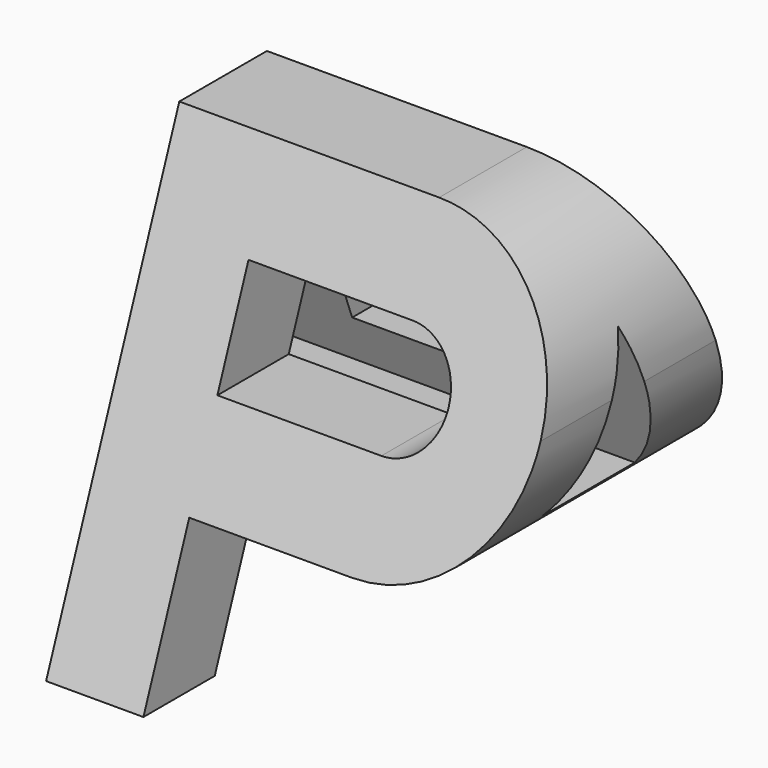
from build123d import *

# Parameters (mm, degrees)
F0_W     = 25.4
F0_H     = 25.4
F1_DEPTH = 25.4
F5_DEPTH = 25.401
F6_DEPTH = 25.401


with BuildPart() as f1:
    # F0 (on Top) → F1 (new body)
    with BuildSketch(Plane.XY):
        Rectangle(F0_W, F0_H)
    extrude(amount=F1_DEPTH)

    # F3 (on face) → F5 (intersect, through all)
    with BuildSketch(Plane(origin=(-12.7, 0, 0), x_dir=(0, -1, 0), z_dir=(-1, 0, 0))):
        Polygon((3.142383, 25.4), (0, 25.4), (-3.142383, 25.4), (-12.7, 0), (-7.581967, 0), (-5.010512, 6.833812), (0, 6.833812), (5.010512, 6.833812), (7.581967, 0), (12.7, 0), align=None)
        Polygon((-3.307431, 11.359861), (0, 20.149579), (3.307431, 11.359861), (0, 11.359861), align=None, mode=Mode.SUBTRACT)
    extrude(amount=-F5_DEPTH, mode=Mode.INTERSECT)

    # F4 (on face) → F6 (intersect, through all)
    with BuildSketch(Plane.XZ.offset(12.7)):
        with BuildLine():
            Line((-7.112893, 25.4), (-12.7, 25.4))
            Line((-12.7, 25.4), (-12.7, 0))
            Line((-12.7, 0), (-7.112893, 0))
            Line((-7.112893, 0), (-7.112893, 8.737554))
            Line((-7.112893, 8.737554), (2.215559, 8.737554))
            ThreePointArc((2.215559, 8.737554), (-2.51092, 10.208043), (-5.56892, 14.100417))
            Line((-5.56892, 14.100417), (-7.112893, 14.100417))
            Line((-7.112893, 14.100417), (-7.112893, 20.037137))
            Line((-7.112893, 20.037137), (-5.56892, 20.037137))
            ThreePointArc((-5.56892, 20.037137), (-2.51092, 23.929511), (2.215559, 25.4))
            Line((2.215559, 25.4), (-7.112893, 25.4))
        make_face()
        with BuildLine():
            ThreePointArc((10.546782, 17.068777), (8.106623, 22.959841), (2.215559, 25.4))
            ThreePointArc((2.215559, 25.4), (-2.51092, 23.929511), (-5.56892, 20.037137))
            Line((-5.56892, 20.037137), (2.299962, 20.037137))
            ThreePointArc((2.299962, 20.037137), (4.398909, 19.167725), (5.268321, 17.068777))
            ThreePointArc((5.268321, 17.068777), (4.398909, 14.96983), (2.299962, 14.100417))
            Line((2.299962, 14.100417), (-5.56892, 14.100417))
            ThreePointArc((-5.56892, 14.100417), (-2.51092, 10.208043), (2.215559, 8.737554))
            ThreePointArc((2.215559, 8.737554), (8.106623, 11.177713), (10.546782, 17.068777))
        make_face()
    extrude(amount=-F6_DEPTH, mode=Mode.INTERSECT)


solid = f1.part
